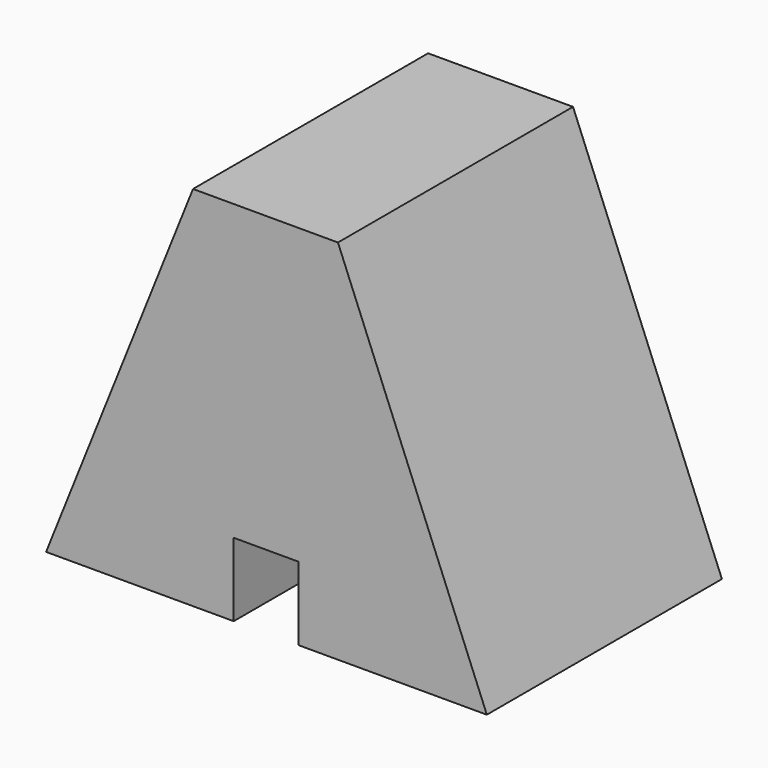
from build123d import *

# Parameters (mm, degrees)
F0_W     = 38.1
F0_H     = 31.75
F1_DEPTH = 25.4
F2_W     = 5.603711
F2_H     = 6.35
F3_DEPTH = 25.4


with BuildPart() as f1:
    # F0 (on Front) → F1 (new body)
    with BuildSketch(Plane.XZ):
        with Locations((19.05, 15.875)):
            Rectangle(F0_W, F0_H)
    extrude(amount=F1_DEPTH)

    # F2 (on face) → F3 (cut)
    with BuildSketch(Plane.XZ.offset(25.4)):
        with Locations((19.020174, 3.175)):
            Rectangle(F2_W, F2_H)
        Polygon((0, 31.75), (0, 0), (12.7, 31.75), align=None)
        Polygon((25.229283, 31.75), (38.1, 0), (38.1, 31.75), align=None)
    extrude(amount=-F3_DEPTH, mode=Mode.SUBTRACT)


solid = f1.part
